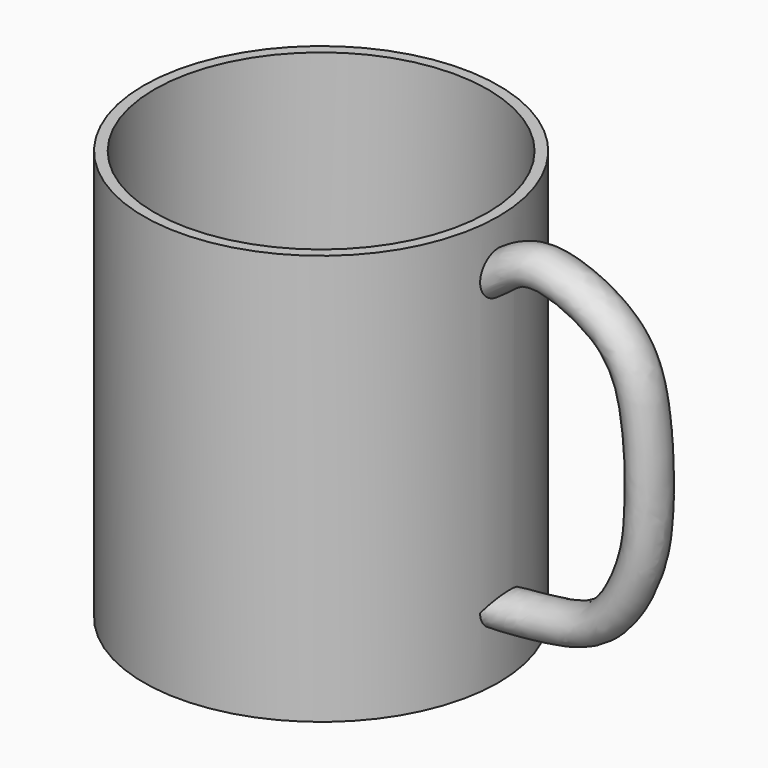
from build123d import *

# Parameters (mm, degrees)
F0_R     = 41.5
F1_DEPTH = 96
F4_T     = -2.5
F3_R     = 5


with BuildPart() as f1:
    # F0 (on Top) → F1 (new body)
    with BuildSketch(Plane.XY):
        Circle(F0_R)
    extrude(amount=F1_DEPTH)

    # F4
    f4_openings = [f1.faces().sort_by_distance(p)[0] for p in [
        (0, 0, 96),
    ]]
    offset(amount=F4_T, openings=f4_openings)

    # F6: sweep along a path in F5
    with BuildLine(Plane.XZ) as f6_path:
        add(Plane.XZ * Edge.make_bspline(
            [(41.0308204591, 84.3126177788), (44.2771619024, 86.4459571767), (51.1742733057, 91.5992180694), (71.4131444883, 82.4807549981), (76.6916375176, 67.5820932302), (77.2226649692, 45.1412886527), (74.6758202226, 32.6616534633), (66.8220973433, 19.1485351225), (53.5441062633, 16.6685508086), (43.9743724782, 15.9261256909), (41.9582538307, 15.8893801272), (41.0123020411, 15.9636326134)],
            knots=[0, 0, 0, 0, 0.1051929478, 0.2412304884, 0.3642565602, 0.5098184062, 0.6227036292, 0.7397754052, 0.8532033433, 0.9478816315, 1, 1, 1, 1], degree=3))
    # F3 (on offset) → F6 (sweep)
    with BuildSketch(Plane.YZ.offset(41.3)):
        with Locations((0, 84.4062492251)):
            Circle(F3_R)
    sweep(path=f6_path.line)


solid = f1.part
